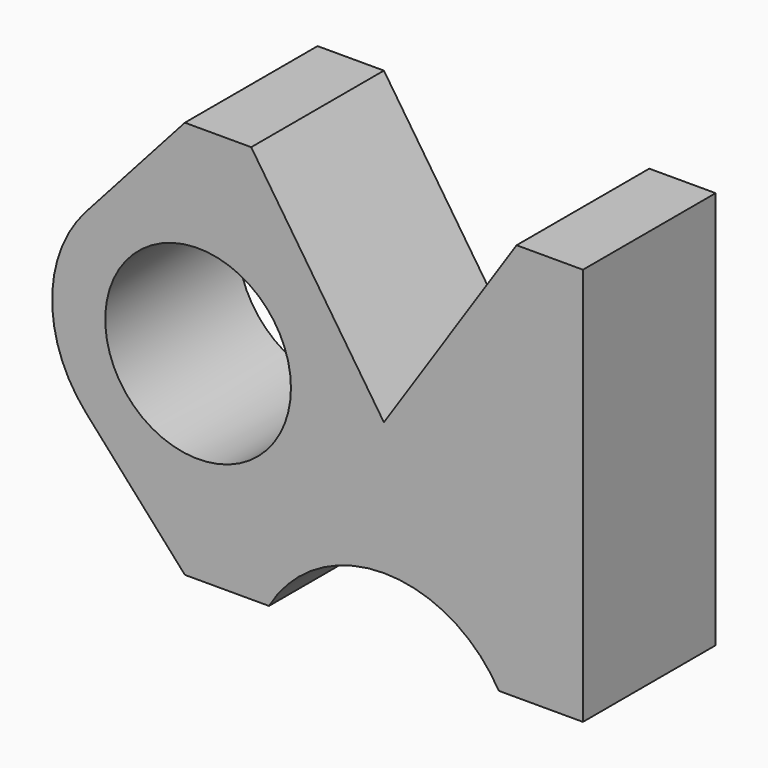
from build123d import *

# Parameters (mm, degrees)
F1_DEPTH = 25
F2_R     = 13.993401
F3_DEPTH = 25


with BuildPart() as f1:
    # F0 (on Front) → F1 (new body)
    with BuildSketch(Plane.XZ):
        with BuildLine():
            Line((20, 30), (0, 0))
            Line((0, 0), (-20, 30))
            Line((-20, 30), (-30, 30))
            Line((-30, 30), (-44.90712, 13.333333))
            ThreePointArc((-44.90712, 13.333333), (-50, 0), (-44.90712, -13.333333))
            Line((-44.90712, -13.333333), (-30, -30))
            Line((-30, -30), (-17.320508, -30))
            ThreePointArc((-17.320508, -30), (0, -20), (17.320508, -30))
            Line((17.320508, -30), (30, -30))
            Line((30, -30), (30, 30))
            Line((30, 30), (20, 30))
        make_face()
    extrude(amount=F1_DEPTH)

    # F2 (on face) → F3 (cut, through all)
    with BuildSketch(Plane.XZ.offset(25)):
        with Locations((-28.004415, 0)):
            Circle(F2_R)
    extrude(amount=-F3_DEPTH, mode=Mode.SUBTRACT)


solid = f1.part
